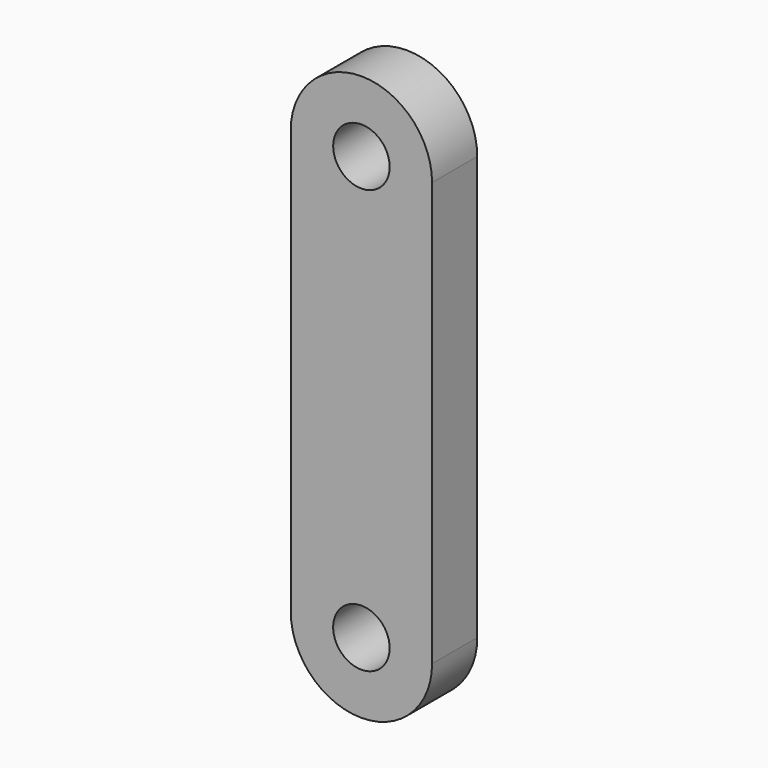
from build123d import *

# Parameters (mm, degrees)
F1_DEPTH = 8


with BuildPart() as f1:
    # F0 (on Front) → F1 (new body)
    with BuildSketch(Plane.XZ):
        with BuildLine():
            ThreePointArc((-20.0152, 59.9948), (-10.0076, 49.9872), (0, 59.9948))
            Line((0, 59.9948), (-6.0071, 59.9948))
            ThreePointArc((-6.0071, 59.9948), (-10.0076, 55.9943), (-14.0081, 59.9948))
            Line((-14.0081, 59.9948), (-20.0152, 59.9948))
        make_face()
        with BuildLine():
            Line((-6.0071, 59.9948), (0, 59.9948))
            ThreePointArc((0, 59.9948), (-10.0076, 70.0024), (-20.0152, 59.9948))
            Line((-20.0152, 59.9948), (-14.0081, 59.9948))
            ThreePointArc((-14.0081, 59.9948), (-10.0076, 63.9953), (-6.0071, 59.9948))
        make_face()
        with BuildLine():
            ThreePointArc((-20.0152, 0), (-10.0076, 10.0076), (0, 0))
            Line((0, 0), (0, 59.9948))
            ThreePointArc((0, 59.9948), (-10.0076, 49.9872), (-20.0152, 59.9948))
            Line((-20.0152, 59.9948), (-20.0152, 0))
        make_face()
        with BuildLine():
            ThreePointArc((-20.0152, 0), (-10.0076, -10.0076), (0, 0))
            Line((0, 0), (-6.0071, 0))
            ThreePointArc((-6.0071, 0), (-10.0076, -4.0005), (-14.0081, 0))
            Line((-14.0081, 0), (-20.0152, 0))
        make_face()
        with BuildLine():
            Line((-6.0071, 0), (0, 0))
            ThreePointArc((0, 0), (-10.0076, 10.0076), (-20.0152, 0))
            Line((-20.0152, 0), (-14.0081, 0))
            ThreePointArc((-14.0081, 0), (-10.0076, 4.0005), (-6.0071, 0))
        make_face()
    extrude(amount=F1_DEPTH)


solid = f1.part
